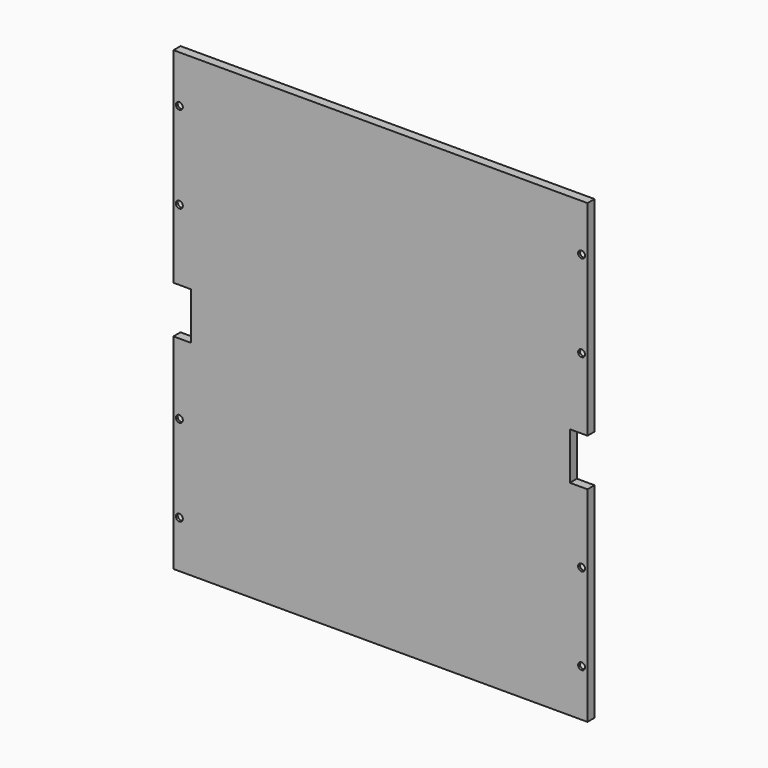
from build123d import *

# Parameters (mm, degrees)
F1_DEPTH = 19.05
F3_D     = 15.0114
F3_DEPTH = 4.826
F3_TIP   = 4.5098795482


with BuildPart() as f1:
    # F0 (on Front) → F1 (new body)
    with BuildSketch(Plane.XZ):
        Polygon((446.0875, 50.8), (446.0875, 492.125), (-446.0875, 492.125), (-446.0875, 50.8), (-407.9875, 50.8), (-407.9875, -50.8), (-446.0875, -50.8), (-446.0875, -492.125), (446.0875, -492.125), (446.0875, -50.8), (407.9875, -50.8), (407.9875, 50.8), align=None)
    extrude(amount=F1_DEPTH)

    # F3
    with Locations(Plane.XZ.offset(19.05)):
        with Locations((-433.3875, 390.525), (-433.3875, 203.2), (-433.3875, -203.2), (-433.3875, -390.525), (433.3875, 390.525), (433.3875, 203.2), (433.3875, -203.2), (433.3875, -390.525)):
            Hole(F3_D / 2, depth=F3_DEPTH)
            with Locations((0, 0, -(F3_DEPTH + F3_TIP / 2))):  # 118° drill point
                Cone(0, F3_D / 2, F3_TIP, mode=Mode.SUBTRACT)


solid = f1.part
